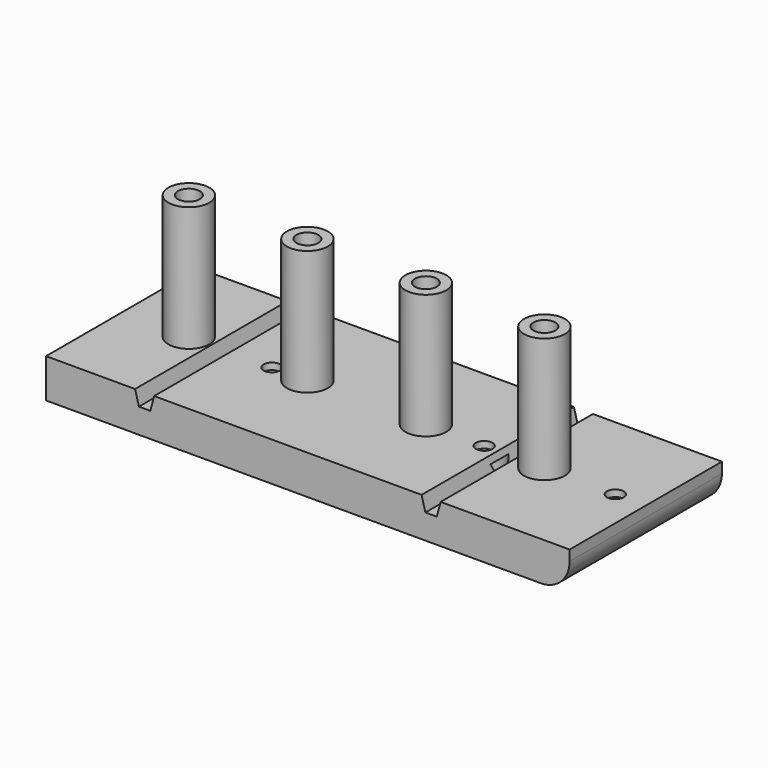
from build123d import *

# Parameters (mm, degrees)
F0_W      = 110
F0_H      = 40
F1_DEPTH  = 8.2
F2_R      = 6
F3_R      = 4.3
F4_DEPTH  = 26.2
F5_R      = 2.55
F5_R_2    = 4
F6_DEPTH  = 6.8
F7_R      = 1.75
F8_DEPTH  = 8.201
F10_DEPTH = 40.001
F11_R     = 2.3
F12_DEPTH = 25


with BuildPart() as f1:
    # F0 (on Top) → F1 (new body)
    with BuildSketch(Plane.XY):
        Rectangle(F0_W, F0_H)
    extrude(amount=F1_DEPTH)

    # F2
    f2_edges = [f1.edges().sort_by_distance(p)[0] for p in [
        (55, 0, 0),
    ]]
    fillet(f2_edges, radius=F2_R)

    # F3 (on face) → F4 (join)
    with BuildSketch(Plane.XY.offset(8.2)):
        with Locations((-41, 0)):
            Circle(F3_R)
        with Locations((-16.1, 0)):
            Circle(F3_R)
        with Locations((8.8, 0)):
            Circle(F3_R)
        with Locations((33.7, 0)):
            Circle(F3_R)
    extrude(amount=F4_DEPTH)

    # F5 (on face) → F6 (cut)
    with BuildSketch(Plane(origin=(0, 0, 0), x_dir=(1, 0, 0), z_dir=(0, 0, -1))):
        with Locations((48.6, 0)):
            Circle(F5_R)
        with Locations((21.05, 0)):
            Circle(F5_R_2)
        with Locations((-23.55, 0)):
            Circle(F5_R_2)
    extrude(amount=-F6_DEPTH, mode=Mode.SUBTRACT)

    # F7 (on face) → F8 (cut, through all)
    with BuildSketch(Plane.XY.offset(8.2)):
        with Locations((48.6, 0)):
            Circle(F7_R)
        with Locations((21.05, 0)):
            Circle(F7_R)
        with Locations((-23.55, 0)):
            Circle(F7_R)
    extrude(amount=-F8_DEPTH, mode=Mode.SUBTRACT)

    # F9 (on face) → F10 (cut, through all)
    with BuildSketch(Plane.XZ.offset(20)):
        Polygon((-32.3, 8.2), (-36.3, 8.2), (-35.5, 5.2), (-33.1, 5.2), align=None)
        Polygon((27.9, 8.2), (23.9, 8.2), (24.7, 5.2), (27.1, 5.2), align=None)
    extrude(amount=-F10_DEPTH, mode=Mode.SUBTRACT)

    # F11 (on face) → F12 (cut)
    with BuildSketch(Plane.XY.offset(34.4)):
        with Locations((-41, 0)):
            Circle(F11_R)
        with Locations((-16.1, 0)):
            Circle(F11_R)
        with Locations((8.8, 0)):
            Circle(F11_R)
        with Locations((33.7, 0)):
            Circle(F11_R)
    extrude(amount=-F12_DEPTH, mode=Mode.SUBTRACT)


solid = f1.part
